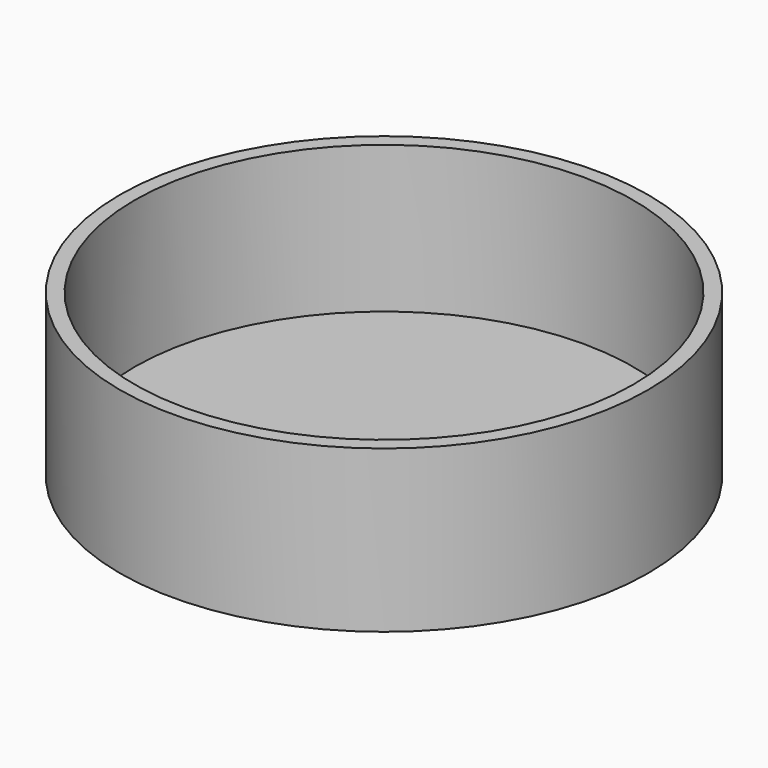
from build123d import *

# Parameters (mm, degrees)
SKETCH020_R  = 17
PAD018_DEPTH = 11
SKETCH019_R  = 18
PAD017_DEPTH = 11


with BuildPart() as body019:
    # Sketch020 → Pad018 (new body)
    with BuildSketch(Plane.XY.offset(-49)):
        with Locations((0, -37)):
            Circle(SKETCH020_R)
    extrude(amount=PAD018_DEPTH)


with BuildPart() as body019_1:
    # Body019 placement: moved
    add(body019.part.moved(Location((0, 0, 1))))


with BuildPart() as petri:
    # Sketch019 → Pad017 (new body)
    with BuildSketch(Plane.XY.offset(-49)):
        with Locations((0, -37)):
            Circle(SKETCH019_R)
    extrude(amount=PAD017_DEPTH)

    # Cut012: cut Body019
    add(body019_1.part, mode=Mode.SUBTRACT)


with BuildPart() as petri_1:
    # Cut012 placement: moved
    add(petri.part.moved(Location((0, 0, -12))))


solid = petri_1.part
